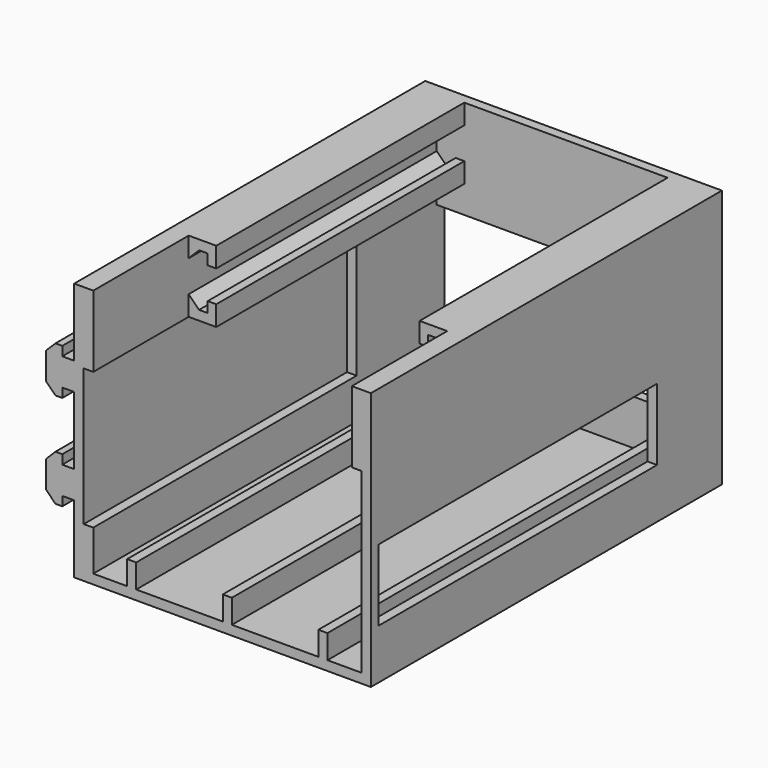
from build123d import *

# Parameters (mm, degrees)
SKETCH_W        = 1.9
SKETCH_H        = 5
PAD_DEPTH       = 90
SKETCH001_W     = 2
SKETCH001_H     = 69
SKETCH001_H_2   = 73
POCKET_DEPTH    = 5
SKETCH002_W     = 60.2
SKETCH002_H     = 11.5
PAD001_DEPTH    = 2
SKETCH004_W     = 2
SKETCH004_H     = 2
PAD002_DEPTH    = 4
PAD003_DEPTH    = 92
SKETCH006_W     = 2
SKETCH006_H     = 73
PAD004_DEPTH    = 5
SKETCH007_W     = 2
SKETCH007_H     = 92
PAD005_DEPTH    = 38.74
SKETCH008_W     = 15
SKETCH008_H     = 73
POCKET001_DEPTH = 2
SKETCH009_W     = 2
SKETCH009_H     = 23
PAD006_DEPTH    = 38.74
SKETCH010_W     = 56.2
SKETCH010_H     = 2
PAD007_DEPTH    = 42.74
SKETCH011_W     = 56.2
SKETCH011_H     = 22
POCKET002_DEPTH = 2
SKETCH012_W     = 2
SKETCH012_H     = 15
PAD008_DEPTH    = 69
SKETCH013_W     = 2
SKETCH013_H     = 15
PAD009_DEPTH    = 90
PAD010_DEPTH    = 65


with BuildPart() as part:
    # Sketch → Pad (new body)
    with BuildSketch(Plane.XZ):
        Polygon((-30.1, 0), (30.1, 0), (30.1, 15.5), (28.1, 15.5), (28.1, 2), (-28.1, 2), (-28.1, 15.5), (-30.1, 15.5), align=None)
        with Locations((0, 4.5)):
            Rectangle(SKETCH_W, SKETCH_H)
        with Locations((-20.05, 4.5)):
            Rectangle(SKETCH_W, SKETCH_H)
        with Locations((20.05, 4.5)):
            Rectangle(SKETCH_W, SKETCH_H)
    extrude(amount=PAD_DEPTH)

    # Sketch001 (on Face3 of Pad) → Pocket (cut)
    with BuildSketch(Plane(origin=(0, 0, 15.5), x_dir=(-1, 0, 0), z_dir=(0, 0, 1))):
        with Locations((29.1, 55.5)):
            Rectangle(SKETCH001_W, SKETCH001_H)
        with Locations((-29.1, 53.5)):
            Rectangle(SKETCH001_W, SKETCH001_H_2)
    extrude(amount=-POCKET_DEPTH, mode=Mode.SUBTRACT)

    # Sketch002 (on Face2 of Pocket) → Pad001 (join)
    with BuildSketch(Plane(origin=(0, 0, 0), x_dir=(1, 0, 0), z_dir=(0, 1, 0))):
        with Locations((0, -5.75)):
            Rectangle(SKETCH002_W, SKETCH002_H)
    extrude(amount=PAD001_DEPTH)

    # Sketch004 → Pad002 (join)
    with BuildSketch(Plane(origin=(0, 0, 11.5), x_dir=(-1, 0, 0), z_dir=(0, 0, 1))):
        with Locations((-29.1, -1)):
            Rectangle(SKETCH004_W, SKETCH004_H)
        with Locations((29.1, -1)):
            Rectangle(SKETCH004_W, SKETCH004_H)
    extrude(amount=PAD002_DEPTH)

    # Sketch005 (on Face26 of Pad002) → Pad003 (join)
    with BuildSketch(Plane(origin=(0, 2, 0), x_dir=(1, 0, 0), z_dir=(0, 1, 0))):
        Polygon((-30.1, -54.24), (-30.1, 0), (-32.1, 0), (-32.1, -14.24), (-34.6, -14.24), (-34.6, -12.31), (-36.03, -12.31), (-37.995757, -14.275757), (-37.995757, -19.965757), (-36.03, -21.931514), (-34.6, -21.931514), (-34.6, -20), (-32.1, -20), (-32.1, -34.24), (-34.6, -34.24), (-34.6, -32.31), (-36.03, -32.31), (-37.995757, -34.275757), (-37.995757, -39.965757), (-36.03, -41.931514), (-34.6, -41.931514), (-34.6, -40.001514), (-32.1, -40.001514), (-32.1, -54.24), align=None)
    extrude(amount=-PAD003_DEPTH)

    # Sketch006 (on Face46 of Pad003) → Pad004 (join)
    with BuildSketch(Plane(origin=(0, 0, 10.5), x_dir=(-1, 0, 0), z_dir=(0, 0, 1))):
        with Locations((-29.1, 53.5)):
            Rectangle(SKETCH006_W, SKETCH006_H)
    extrude(amount=PAD004_DEPTH)

    # Sketch007 (on Face48 of Pad004) → Pad005 (join)
    with BuildSketch(Plane(origin=(0, 0, 15.5), x_dir=(-1, 0, 0), z_dir=(0, 0, 1))):
        with Locations((-29.1, 44)):
            Rectangle(SKETCH007_W, SKETCH007_H)
    extrude(amount=PAD005_DEPTH)

    # Sketch008 (on Face48 of Pad005) → Pocket001 (cut)
    with BuildSketch(Plane(origin=(30.1, 0, 0), x_dir=(0, 0, 1), z_dir=(1, 0, 0))):
        with Locations((18, 51.5)):
            Rectangle(SKETCH008_W, SKETCH008_H)
    extrude(amount=-POCKET001_DEPTH, mode=Mode.SUBTRACT)

    # Sketch009 (on Face51 of Pocket001) → Pad006 (join)
    with BuildSketch(Plane(origin=(0, 0, 15.5), x_dir=(-1, 0, 0), z_dir=(0, 0, 1))):
        with Locations((29.1, 9.5)):
            Rectangle(SKETCH009_W, SKETCH009_H)
    extrude(amount=PAD006_DEPTH)

    # Sketch010 (on Face17 of Pad006) → Pad007 (join)
    with BuildSketch(Plane(origin=(0, 0, 11.5), x_dir=(-1, 0, 0), z_dir=(0, 0, 1))):
        with Locations((0, -1)):
            Rectangle(SKETCH010_W, SKETCH010_H)
    extrude(amount=PAD007_DEPTH)

    # Sketch011 (on Face47 of Pad007) → Pocket002 (cut)
    with BuildSketch(Plane.XZ):
        with Locations((0, 22.5)):
            Rectangle(SKETCH011_W, SKETCH011_H)
    extrude(amount=-POCKET002_DEPTH, mode=Mode.SUBTRACT)

    # Sketch012 (on Face49 of Pocket002) → Pad008 (join)
    with BuildSketch(Plane.XZ.offset(21)):
        with Locations((-29.1, 46.74)):
            Rectangle(SKETCH012_W, SKETCH012_H)
    extrude(amount=PAD008_DEPTH)

    # Sketch013 (on Face22 of Pad008) → Pad009 (join)
    with BuildSketch(Plane.XZ):
        with Locations((27.1, 46.74)):
            Rectangle(SKETCH013_W, SKETCH013_H)
    extrude(amount=PAD009_DEPTH)

    # Sketch014 (on Face44 of Pad009) → Pad010 (join)
    with BuildSketch(Plane.XZ):
        Polygon((20.32, 39.24), (20.32, 43.44), (22.12, 43.44), (22.12, 41.24), (23.92, 41.24), (26.118204, 43.44), (26.118204, 39.24), align=None)
        Polygon((20.32, 54.24), (20.32, 50.04), (22.12, 50.04), (22.12, 52.24), (23.92, 52.24), (26.118204, 50.04), (26.118204, 54.24), align=None)
        Polygon((-22.32, 43.44), (-22.32, 39.24), (-28.12, 39.24), (-28.12, 43.438204), (-25.92, 41.24), (-24.12, 41.24), (-24.12, 43.44), align=None)
        Polygon((-22.32, 54.24), (-22.32, 50.04), (-24.12, 50.04), (-24.12, 52.24), (-25.92, 52.24), (-28.118204, 50.04), (-28.118204, 54.24), align=None)
    extrude(amount=PAD010_DEPTH)


solid = part.part
